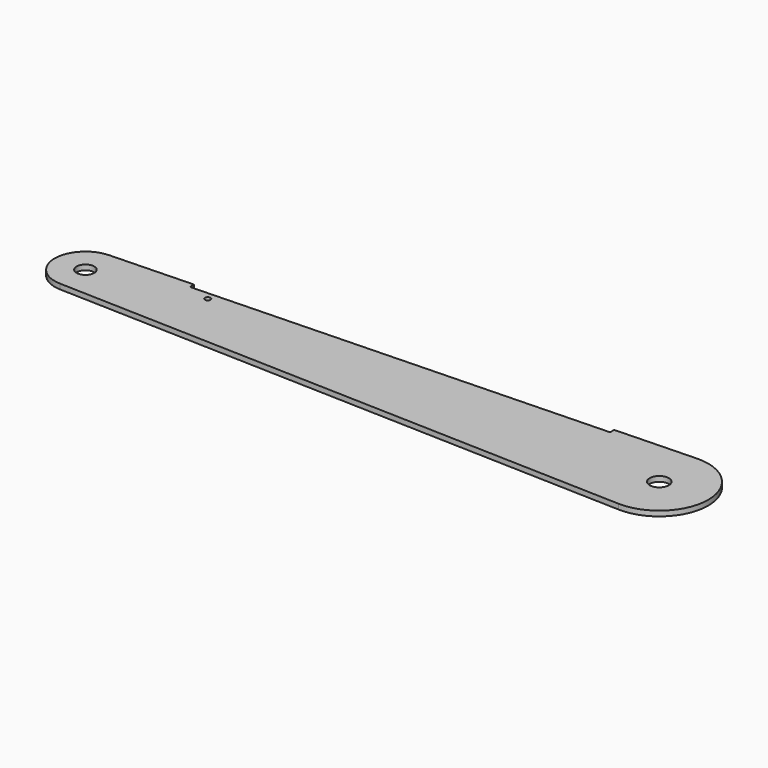
from build123d import *

# Parameters (mm, degrees)
F0_R     = 5.471566
F0_R_2   = 1.7272
F0_R_3   = 5.962988
F1_DEPTH = 3.175


with BuildPart() as f1:
    # F0 (on Top) → F1 (new body)
    with BuildSketch(Plane.XY):
        with BuildLine():
            Line((-356.206027, -19.040358), (-0.965905, -30.347132))
            ThreePointArc((-0.965905, -30.347132), (30.3625, 0), (-0.965905, 30.347132))
            Line((-0.965905, 30.347132), (-51.029565, 28.753679))
            Line((-51.029565, 28.753679), (-50.92856, 25.580286))
            Line((-50.92856, 25.580286), (-304.8, 17.499929))
            Line((-304.8, 17.499929), (-304.901004, 20.673322))
            Line((-304.901004, 20.673322), (-356.206027, 19.040358))
            ThreePointArc((-356.206027, 19.040358), (-374.65, 0), (-356.206027, -19.040358))
        make_face()
        with Locations((-355.6, 0)):
            Circle(F0_R, mode=Mode.SUBTRACT)
        with Locations((-290.368225, 13.194359)):
            Circle(F0_R_2, mode=Mode.SUBTRACT)
        Circle(F0_R_3, mode=Mode.SUBTRACT)
    extrude(amount=F1_DEPTH)


solid = f1.part
